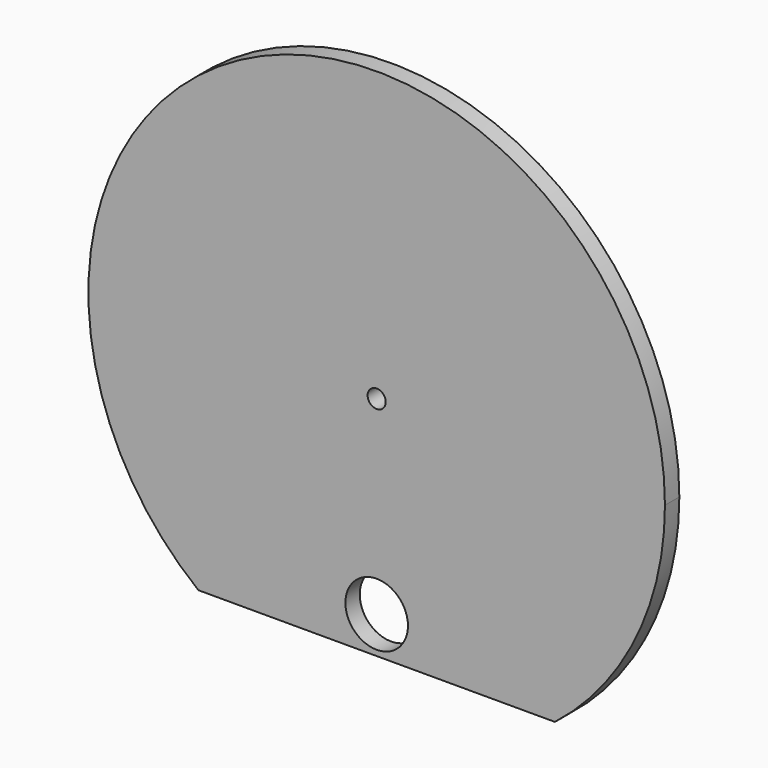
from build123d import *

# Parameters (mm, degrees)
F0_R     = 5.5245
F0_R_2   = 1.6002
F1_DEPTH = 3.175


with BuildPart() as f1:
    # F0 (on Front) → F1 (new body)
    with BuildSketch(Plane.XZ):
        with BuildLine():
            Line((-31.4690486828, -40), (0, -40))
            Line((0, -40), (31.4690486828, -40))
            ThreePointArc((31.4690486828, -40), (45.7816462008, -22.233800758), (50.895, 0))
            ThreePointArc((50.895, 0), (-22.233800758, 45.7816462008), (-31.4690486828, -40))
        make_face()
        with BuildLine():
            ThreePointArc((0, -40), (-28.2842712475, 28.2842712475), (40, 0))
            ThreePointArc((40, 0), (28.2842712475, -28.2842712475), (0, -40))
        make_face(mode=Mode.SUBTRACT)
        with BuildLine():
            ThreePointArc((0, -40), (28.2842712475, -28.2842712475), (40, 0))
            ThreePointArc((40, 0), (-28.2842712475, 28.2842712475), (0, -40))
        make_face()
        with Locations((0, -33.5)):
            Circle(F0_R, mode=Mode.SUBTRACT)
        Circle(F0_R_2, mode=Mode.SUBTRACT)
    extrude(amount=F1_DEPTH)


solid = f1.part
